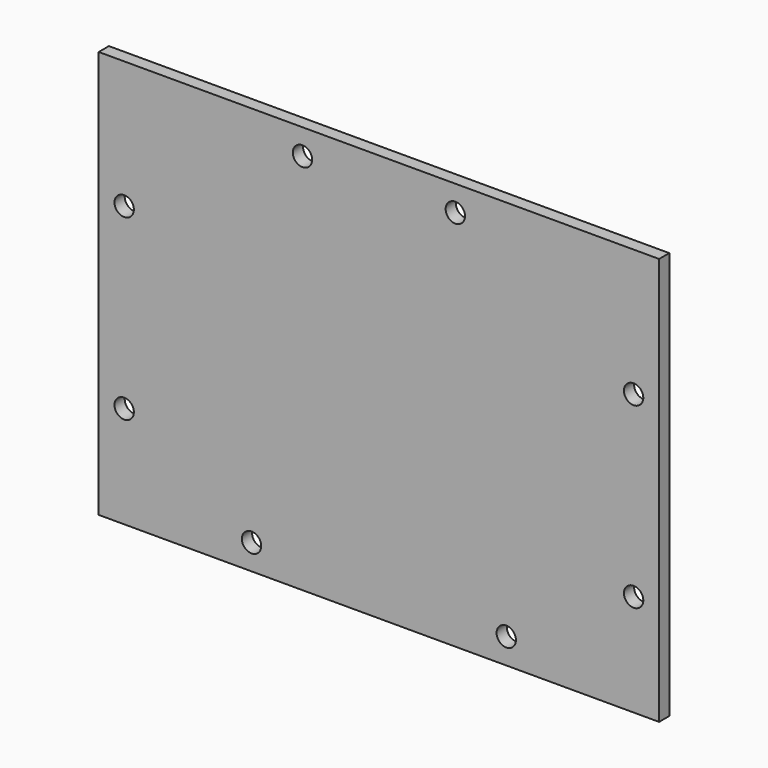
from build123d import *

# Parameters (mm, degrees)
F0_W     = 139.7
F0_H     = 101.6
F1_DEPTH = 1.5875
F2_R     = 2.413
F3_DEPTH = 12.7


with BuildPart() as f1:
    # F0 (on Front) → F1 (new body, symmetric)
    with BuildSketch(Plane.XZ):
        Rectangle(F0_W, F0_H)
    extrude(amount=F1_DEPTH, both=True)

    # F2 (on face) → F3 (cut, symmetric)
    with BuildSketch(Plane.XZ.offset(1.5875)):
        with Locations((-63.5, 19.05)):
            Circle(F2_R)
        with Locations((-63.5, -25.4)):
            Circle(F2_R)
        with Locations((-31.75, -44.45)):
            Circle(F2_R)
        with Locations((31.75, -44.45)):
            Circle(F2_R)
        with Locations((63.5, -25.4)):
            Circle(F2_R)
        with Locations((63.5, 19.05)):
            Circle(F2_R)
        with Locations((19.05, 44.45)):
            Circle(F2_R)
        with Locations((-19.05, 44.45)):
            Circle(F2_R)
    extrude(amount=F3_DEPTH, both=True, mode=Mode.SUBTRACT)


solid = f1.part
